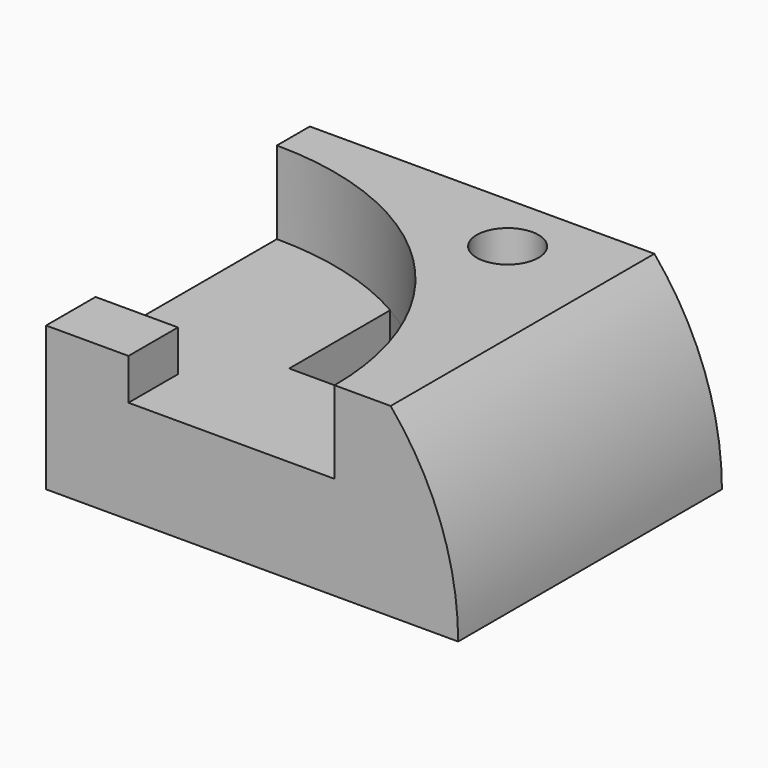
from build123d import *

# Parameters (mm, degrees)
F0_W      = 100
F0_H      = 80
F1_DEPTH  = 45
F3_DEPTH  = 80.001
F5_DEPTH  = 20
F6_DEPTH  = 10
F7_R      = 7.5
F8_DEPTH  = 30
F10_DEPTH = 25.001


with BuildPart() as f1:
    # F0 (on Top) → F1 (new body)
    with BuildSketch(Plane.XY):
        with Locations((50, 40)):
            Rectangle(F0_W, F0_H)
    extrude(amount=F1_DEPTH)

    # F2 (on face) → F3 (cut, through all)
    with BuildSketch(Plane.XZ):
        with BuildLine():
            Line((100, 0), (100, 45))
            Line((100, 45), (83.6190264738, 45))
            ThreePointArc((83.6190264738, 45), (95.7773967757, 23.944395449), (100, 0))
        make_face()
    extrude(amount=-F3_DEPTH, mode=Mode.SUBTRACT)

    # F4 (on face) → F5 (cut)
    with BuildSketch(Plane.XY.offset(45)):
        with BuildLine():
            Line((20, 0), (70, 0))
            ThreePointArc((70, 0), (49.4974746831, 49.4974746831), (0, 70))
            Line((0, 70), (0, 15))
            Line((0, 15), (20, 15))
            Line((20, 15), (20, 0))
        make_face()
    extrude(amount=-F5_DEPTH, mode=Mode.SUBTRACT)

    # F6 (cut): a face of the model
    f6_faces = [f1.faces().sort_by_distance(p)[0] for p in [
        (10, 7.5, 45),
    ]]
    extrude(f6_faces, amount=-F6_DEPTH, mode=Mode.SUBTRACT)

    # F7 (on face) → F8 (cut)
    with BuildSketch(Plane.XY.offset(45)):
        with Locations((60, 65)):
            Circle(F7_R)
    extrude(amount=-F8_DEPTH, mode=Mode.SUBTRACT)

    # F9 (on face) → F10 (cut, through all)
    with BuildSketch(Plane.XY.offset(25)):
        with BuildLine():
            ThreePointArc((63.2455532034, 30), (51.4535762322, 47.4608206094), (35, 60.6217782649))
            Line((35, 60.6217782649), (35, 30))
            Line((35, 30), (63.2455532034, 30))
        make_face()
    extrude(amount=-F10_DEPTH, mode=Mode.SUBTRACT)


solid = f1.part
